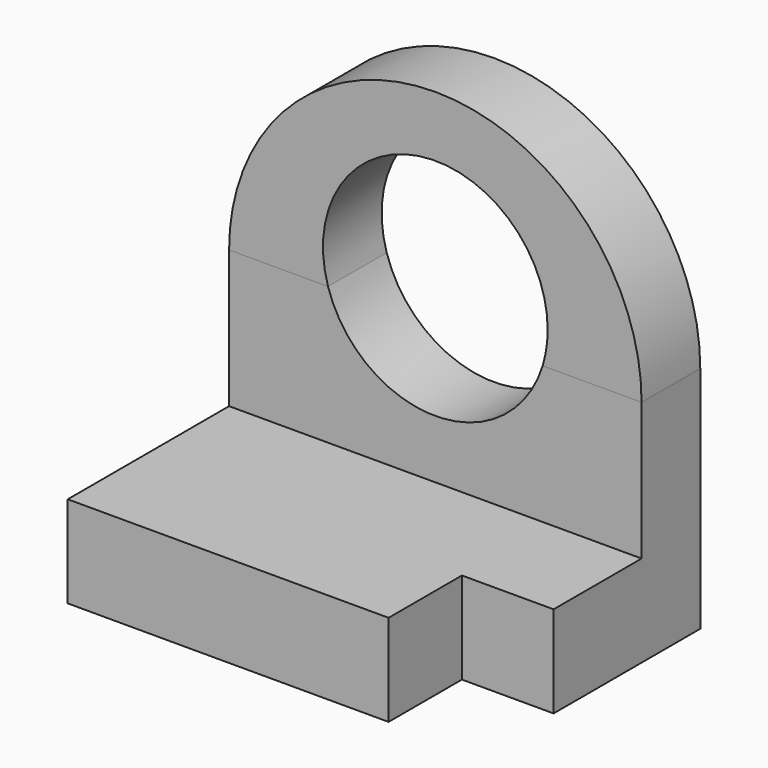
from build123d import *

# Parameters (mm, degrees)
F0_W     = 57.15
F0_H     = 38.1
F1_DEPTH = 6.35
F2_W     = 12.7
F2_H     = 12.7
F3_DEPTH = 6.35
F4_W     = 57.15
F4_H     = 10.16
F5_DEPTH = 25.4
F7_DEPTH = 10.16
F9_DEPTH = 10.16


with BuildPart() as f1:
    # F0 (on Top) → F1 (new body, symmetric)
    with BuildSketch(Plane.XY):
        Rectangle(F0_W, F0_H)
    extrude(amount=F1_DEPTH, both=True)

    # F2 (on Top) → F3 (cut, symmetric)
    with BuildSketch(Plane.XY):
        with Locations((22.225, -12.7)):
            Rectangle(F2_W, F2_H)
    extrude(amount=F3_DEPTH, both=True, mode=Mode.SUBTRACT)

    # F4 (on Top) → F5 (join)
    with BuildSketch(Plane.XY):
        with Locations((0, 13.97)):
            Rectangle(F4_W, F4_H)
    extrude(amount=F5_DEPTH)


with BuildPart() as f7:
    # F6 (on face) → F7 (new body)
    with BuildSketch(Plane(origin=(0, 19.05, 0), x_dir=(-1, 0, 0), z_dir=(0, 1, 0))):
        with BuildLine():
            Line((-28.575, 25.4), (28.575, 25.4))
            ThreePointArc((28.575, 25.4), (0, 53.975), (-28.575, 25.4))
        make_face()
    extrude(amount=-F7_DEPTH)


with BuildPart() as f9_tool:
    # F8 (on face) → F9 (new body)
    with BuildSketch(Plane.XZ.offset(-8.89)):
        with BuildLine():
            ThreePointArc((14.8676988119, 25.4), (15.3903275706, 27.67846061), (15.5658567325, 30.0094932318))
            ThreePointArc((15.5658567325, 30.0094932318), (-2.3310326218, 45.3998208024), (-14.8676988119, 25.4))
            Line((-14.8676988119, 25.4), (14.8676988119, 25.4))
        make_face()
        with BuildLine():
            Line((14.8676988119, 25.4), (-14.8676988119, 25.4))
            ThreePointArc((-14.8676988119, 25.4), (0, 14.4436364993), (14.8676988119, 25.4))
        make_face()
    extrude(amount=-F9_DEPTH)


with BuildPart() as f1_1:
    add(f1.part)

    # F9: cut by f9_tool
    add(f9_tool.part, mode=Mode.SUBTRACT)


with BuildPart() as f7_1:
    add(f7.part)

    # F9: cut by f9_tool
    add(f9_tool.part, mode=Mode.SUBTRACT)


solid = Compound([f1_1.part, f7_1.part])
